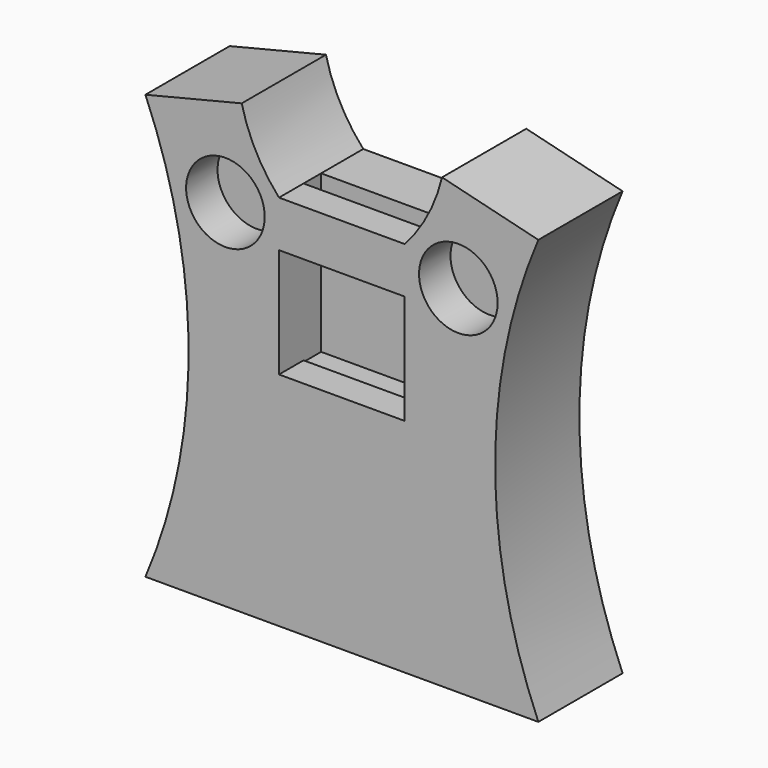
from build123d import *

# Parameters (mm, degrees)
F1_DEPTH = 67
F2_W     = 40
F2_H     = 69.649726
F3_DEPTH = 28
F2_R     = 25
F4_DEPTH = 25
F5_W     = 80
F5_H     = 14
F6_DEPTH = 100


with BuildPart() as f1:
    # F0 (on Front) → F1 (new body)
    with BuildSketch(Plane.XZ):
        with BuildLine():
            ThreePointArc((0, 270), (27.477124, 135), (0, 0))
            Line((0, 0), (125, 0))
            Line((125, 0), (125, 240))
            Line((125, 240), (85, 240))
            ThreePointArc((85, 240), (70.310796, 261.057784), (61.28452, 285.093784))
            Line((61.28452, 285.093784), (0, 270))
        make_face()
        with BuildLine():
            Line((125, 240), (125, 0))
            Line((125, 0), (250, 0))
            ThreePointArc((250, 0), (222.522876, 135), (250, 270))
            Line((250, 270), (188.71548, 285.093784))
            ThreePointArc((188.71548, 285.093784), (179.689204, 261.057784), (165, 240))
            Line((165, 240), (125, 240))
        make_face()
    extrude(amount=F1_DEPTH)

    # F2 (on face) → F3 (cut)
    with BuildSketch(Plane.XZ.offset(67)):
        with Locations((105, 175.762683)):
            Rectangle(F2_W, F2_H)
        with Locations((145, 175.762683)):
            Rectangle(F2_W, F2_H)
    extrude(amount=-F3_DEPTH, mode=Mode.SUBTRACT)

    # F2 (on face) → F4 (cut)
    with BuildSketch(Plane.XZ.offset(67)):
        with Locations((105, 175.762683)):
            Rectangle(F2_W, F2_H)
        with Locations((145, 175.762683)):
            Rectangle(F2_W, F2_H)
        with Locations((50.898362, 226.223186)):
            Circle(F2_R)
        with Locations((199.101638, 226.223186)):
            Circle(F2_R)
    extrude(amount=-F4_DEPTH, mode=Mode.SUBTRACT)

    # F5 (on face) → F6 (cut)
    with BuildSketch(Plane.XY.offset(240)):
        with Locations((125, -40.5)):
            Rectangle(F5_W, F5_H)
    extrude(amount=-F6_DEPTH, mode=Mode.SUBTRACT)


solid = f1.part
